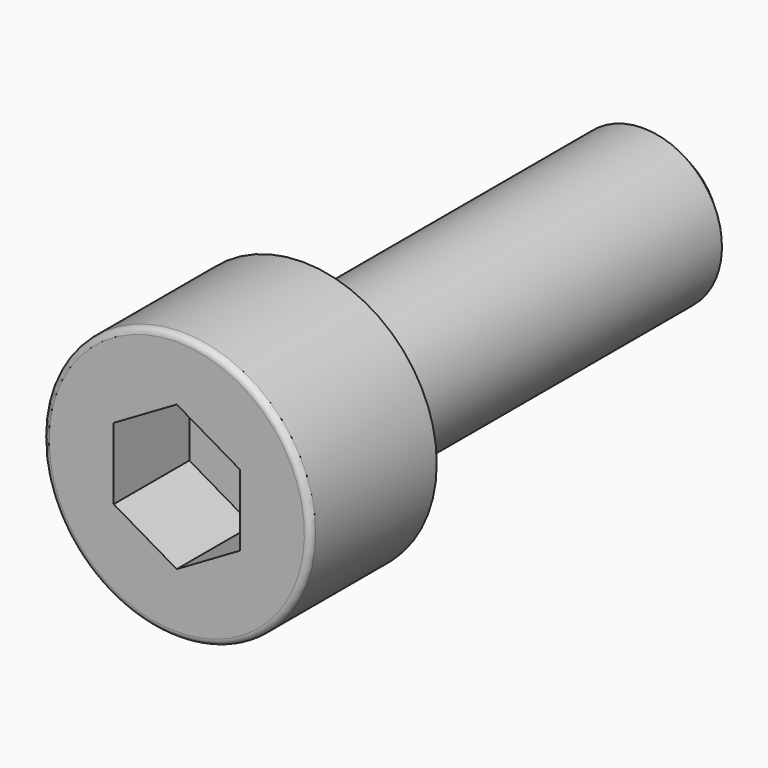
from build123d import *

# Parameters (mm, degrees)
F2_SIZE  = 0.5
F3_R     = 0.2
F5_DEPTH = 3


with BuildPart() as f1:
    # F0 (on Right) → F1 (revolve)
    with BuildSketch(Plane.YZ):
        Polygon((0, 4.25), (0, 0), (19, 0), (19, 2.5), (5, 2.5), (5, 4.25), align=None)
    revolve(axis=Axis((0, 9.5, 0), (0, -1, 0)))

    # F2
    f2_edges = [f1.edges().sort_by_distance(p)[0] for p in [
        (0, 19, -2.5),
    ]]
    chamfer(f2_edges, length=F2_SIZE)

    # F3
    f3_edges = [f1.edges().sort_by_distance(p)[0] for p in [
        (0, 5, -2.5),
        (0, 0, -4.25),
    ]]
    fillet(f3_edges, radius=F3_R)

    # F4 (on face) → F5 (cut)
    with BuildSketch(Plane.XZ):
        Polygon((2, -1.135782), (2, 1.135782), (0, 2.3), (-2, 1.135782), (-2, -1.135782), (0, -2.3), align=None)
    extrude(amount=-F5_DEPTH, mode=Mode.SUBTRACT)


solid = f1.part
